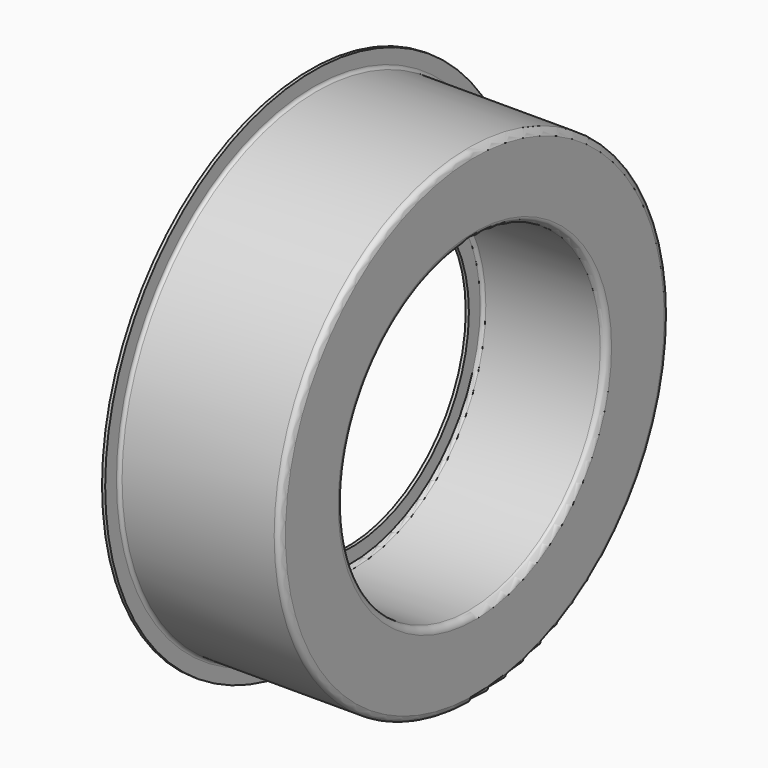
from build123d import *


with BuildPart() as f1:
    # F0 (on Top) → F1 (revolve)
    with BuildSketch(Plane.XY):
        with BuildLine():
            Line((19.05, 81.75625), (19.05, 74.6125))
            Line((19.05, 74.6125), (20.6375, 74.6125))
            Line((20.6375, 74.6125), (20.6375, 81.75625))
            ThreePointArc((20.6375, 81.75625), (21.102468, 82.878782), (22.225, 83.34375))
            Line((22.225, 83.34375), (80.16875, 83.34375))
            ThreePointArc((80.16875, 83.34375), (82.413814, 84.273686), (83.34375, 86.51875))
            Line((83.34375, 86.51875), (83.34375, 119.85625))
            ThreePointArc((83.34375, 119.85625), (82.413814, 122.101314), (80.16875, 123.03125))
            Line((80.16875, 123.03125), (3.175, 123.03125))
            ThreePointArc((3.175, 123.03125), (2.052468, 123.496218), (1.5875, 124.61875))
            Line((1.5875, 124.61875), (1.5875, 131.7625))
            Line((1.5875, 131.7625), (0, 131.7625))
            Line((0, 131.7625), (0, 124.61875))
            ThreePointArc((0, 124.61875), (0.929936, 122.373686), (3.175, 121.44375))
            Line((3.175, 121.44375), (80.16875, 121.44375))
            ThreePointArc((80.16875, 121.44375), (81.291282, 120.978782), (81.75625, 119.85625))
            Line((81.75625, 119.85625), (81.75625, 86.51875))
            ThreePointArc((81.75625, 86.51875), (81.291282, 85.396218), (80.16875, 84.93125))
            Line((80.16875, 84.93125), (22.225, 84.93125))
            ThreePointArc((22.225, 84.93125), (19.979936, 84.001314), (19.05, 81.75625))
        make_face()
    revolve(axis=Axis((66.957444, 0, 0), (1, 0, 0)))


solid = f1.part
